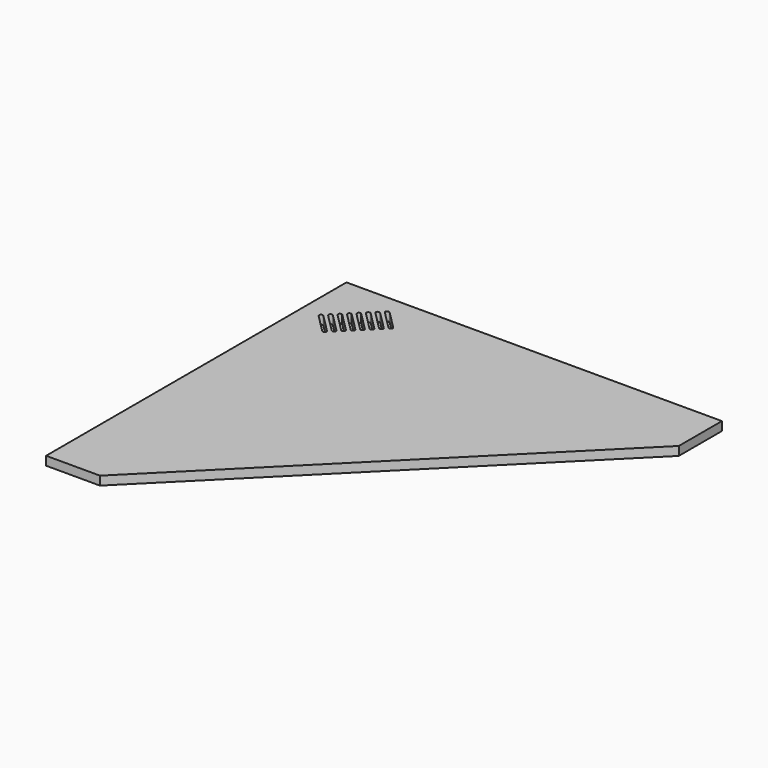
from build123d import *

# Parameters (mm, degrees)
F1_DEPTH = 30
F3_DEPTH = 30


with BuildPart() as f1:
    # F0 (on Top) → F1 (new body)
    with BuildSketch(Plane.XY):
        Polygon((641.35, 641.35), (-641.35, 641.35), (-641.35, -641.35), (-457.2, -641.35), (641.35, 457.2), align=None)
    extrude(amount=F1_DEPTH)

    # F2 (on face) → F3 (cut, through all)
    with BuildSketch(Plane.XY.offset(30)):
        with BuildLine():
            Line((-506.646158, 389.902829), (-569.507951, 452.764621))
            ThreePointArc((-569.507951, 452.764621), (-578.488207, 452.764621), (-578.488207, 443.784365))
            Line((-578.488207, 443.784365), (-515.626414, 380.922572))
            ThreePointArc((-515.626414, 380.922572), (-506.646158, 380.922572), (-506.646158, 389.902829))
        make_face()
        with BuildLine():
            Line((-488.685646, 407.863341), (-551.547439, 470.725134))
            ThreePointArc((-551.547439, 470.725134), (-560.527695, 470.725134), (-560.527695, 461.744878))
            Line((-560.527695, 461.744878), (-497.665902, 398.883085))
            ThreePointArc((-497.665902, 398.883085), (-488.685646, 398.883085), (-488.685646, 407.863341))
        make_face()
        with BuildLine():
            Line((-542.567183, 479.70539), (-479.70539, 416.843597))
            ThreePointArc((-479.70539, 416.843597), (-470.725134, 416.843597), (-470.725134, 425.823853))
            Line((-470.725134, 425.823853), (-533.586927, 488.685646))
            ThreePointArc((-533.586927, 488.685646), (-542.567183, 488.685646), (-542.567183, 479.70539))
        make_face()
        with BuildLine():
            Line((-452.764621, 443.784365), (-515.626414, 506.646158))
            ThreePointArc((-515.626414, 506.646158), (-524.60667, 506.646158), (-524.60667, 497.665902))
            Line((-524.60667, 497.665902), (-461.744878, 434.804109))
            ThreePointArc((-461.744878, 434.804109), (-452.764621, 434.804109), (-452.764621, 443.784365))
        make_face()
        with BuildLine():
            Line((-506.646158, 515.626414), (-443.784365, 452.764621))
            ThreePointArc((-443.784365, 452.764621), (-434.804109, 452.764621), (-434.804109, 461.744878))
            Line((-434.804109, 461.744878), (-497.665902, 524.60667))
            ThreePointArc((-497.665902, 524.60667), (-506.646158, 524.60667), (-506.646158, 515.626414))
        make_face()
        with BuildLine():
            Line((-488.685646, 533.586927), (-425.823853, 470.725134))
            ThreePointArc((-425.823853, 470.725134), (-416.843597, 470.725134), (-416.843597, 479.70539))
            Line((-416.843597, 479.70539), (-479.70539, 542.567183))
            ThreePointArc((-479.70539, 542.567183), (-488.685646, 542.567183), (-488.685646, 533.586927))
        make_face()
        with BuildLine():
            Line((-470.725134, 551.547439), (-407.863341, 488.685646))
            ThreePointArc((-407.863341, 488.685646), (-398.883085, 488.685646), (-398.883085, 497.665902))
            Line((-398.883085, 497.665902), (-461.744878, 560.527695))
            ThreePointArc((-461.744878, 560.527695), (-470.725134, 560.527695), (-470.725134, 551.547439))
        make_face()
        with BuildLine():
            Line((-380.922572, 515.626414), (-443.784365, 578.488207))
            ThreePointArc((-443.784365, 578.488207), (-452.764621, 578.488207), (-452.764621, 569.507951))
            Line((-452.764621, 569.507951), (-389.902829, 506.646158))
            ThreePointArc((-389.902829, 506.646158), (-380.922572, 506.646158), (-380.922572, 515.626414))
        make_face()
    extrude(amount=-F3_DEPTH, mode=Mode.SUBTRACT)


solid = f1.part
